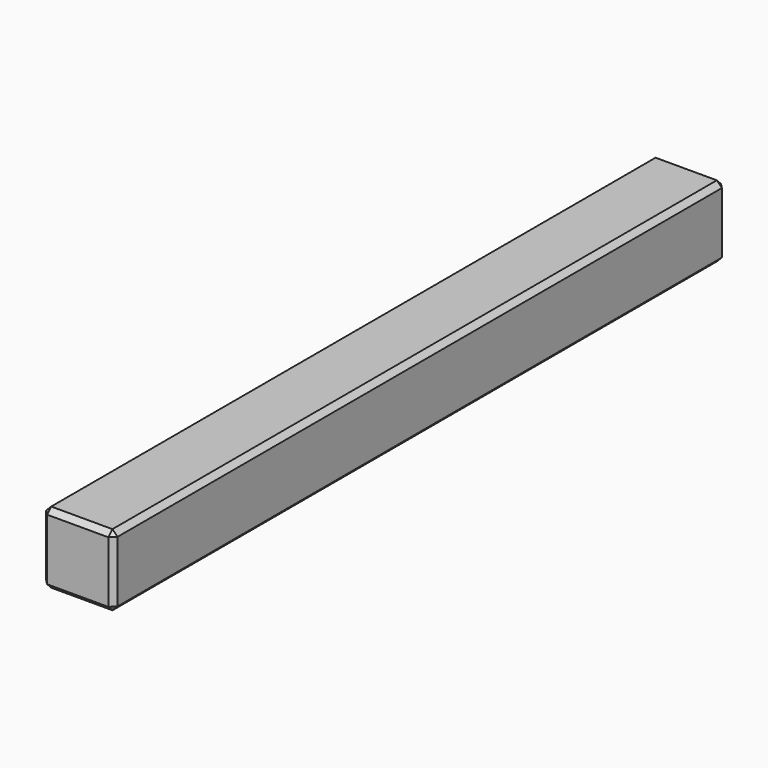
from build123d import *

# Parameters (mm, degrees)
F0_W     = 7
F0_H     = 7
F1_DEPTH = 37.5
F2_SIZE  = 0.5


with BuildPart() as f1:
    # F0 (on Front) → F1 (new body, symmetric)
    with BuildSketch(Plane.XZ):
        Rectangle(F0_W, F0_H)
    extrude(amount=F1_DEPTH, both=True)

    # F2
    f2_edges = [f1.edges().sort_by_distance(p)[0] for p in [
        (0, -37.5, -3.5),
        (3.5, -37.5, 0),
        (0, -37.5, 3.5),
        (-3.5, -37.5, 0),
        (3.5, 0, 3.5),
        (3.5, 0, -3.5),
        (-3.5, 0, 3.5),
        (-3.5, 0, -3.5),
        (0, 37.5, -3.5),
        (3.5, 37.5, 0),
        (0, 37.5, 3.5),
        (-3.5, 37.5, 0),
    ]]
    chamfer(f2_edges, length=F2_SIZE)


solid = f1.part
